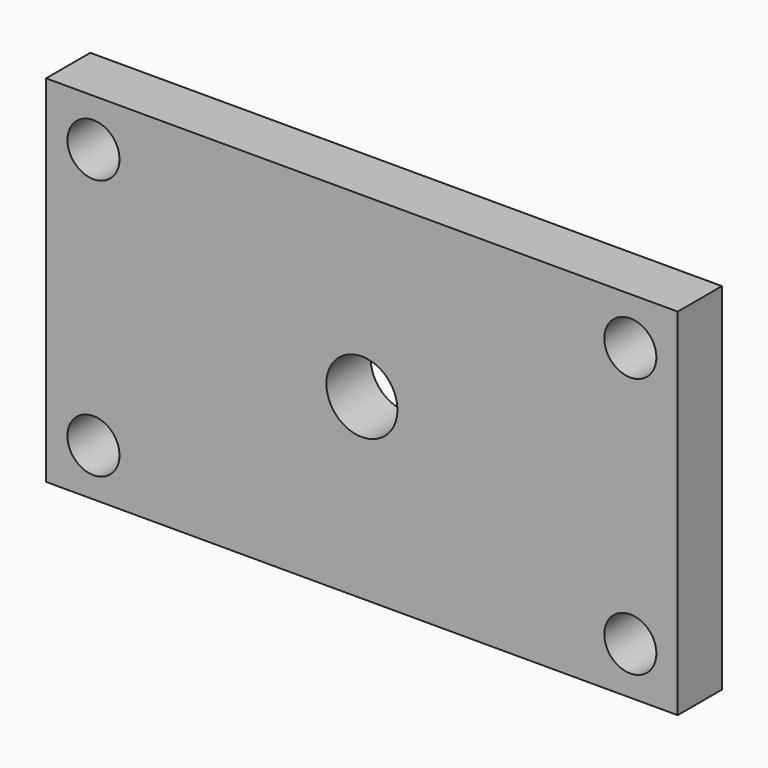
from build123d import *

# Parameters (mm, degrees)
F0_W     = 80
F0_H     = 45
F1_DEPTH = 7
F3_D     = 6.6
F5_D     = 9


with BuildPart() as f1:
    # F0 (on Front) → F1 (new body)
    with BuildSketch(Plane.XZ):
        Rectangle(F0_W, F0_H)
    extrude(amount=F1_DEPTH)

    # F3 (through all)
    with Locations(Plane.XZ.offset(7)):
        with Locations((-34, 16.5), (-34, -16.5), (34, -16.5), (34, 16.5)):
            Hole(F3_D / 2)

    # F5 (through all)
    with Locations(Plane.XZ.offset(7)):
        with Locations((0, 0)):
            Hole(F5_D / 2)


solid = f1.part
